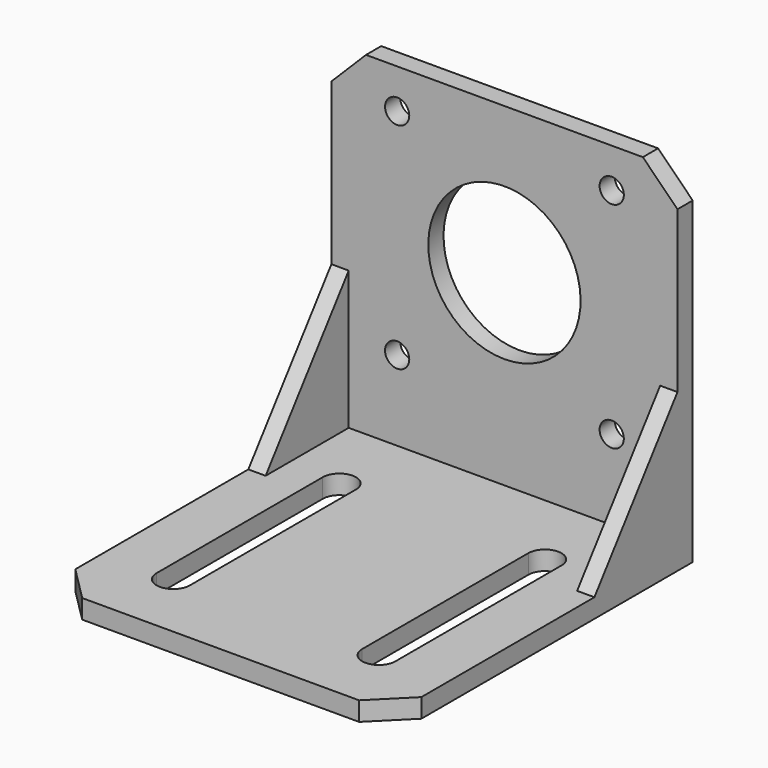
from build123d import *

# Parameters (mm, degrees)
PAD_DEPTH       = 25
CHAMFER_SIZE    = 5
PAD001_DEPTH    = 2.5
SKETCH002_R     = 11
POCKET_DEPTH    = 5
SKETCH003_R     = 1.75
HOLE_DEPTH      = 25
POCKET001_DEPTH = 5


with BuildPart() as part:
    # Sketch → Pad (new body, symmetric)
    with BuildSketch(Plane.YZ):
        Polygon((0, 51), (0, 0), (-54, 0), (-54, 2.75), (-2.75, 2.75), (-2.75, 51), align=None)
    extrude(amount=PAD_DEPTH, both=True)

    # Chamfer
    chamfer_edges = [part.edges().sort_by_distance(p)[0] for p in [
        (25, -1.375, 51),
        (-25, -1.375, 51),
        (25, -54, 1.375),
        (-25, -54, 1.375),
    ]]
    chamfer(chamfer_edges, length=CHAMFER_SIZE)

    # Sketch001 (on Face6 of Chamfer) → Pad001 (join)
    with BuildSketch(Plane.YZ.offset(25)):
        Polygon((-2.75, 2.75), (-2.75, 22.75), (-17.75, 2.75), align=None)
    pad001 = extrude(amount=-PAD001_DEPTH)

    # Mirrored: Pad001 across YZ
    add(pad001.mirror(Plane.YZ))

    # Sketch002 (on Face7 of Mirrored) → Pocket (cut)
    with BuildSketch(Plane(origin=(0, -2.75, 0), x_dir=(0, 0, -1), z_dir=(0, -1, 0))):
        with Locations((-29.8, 0)):
            Circle(SKETCH002_R)
    extrude(amount=-POCKET_DEPTH, mode=Mode.SUBTRACT)

    # Sketch003 (on Face9 of Pocket) → Hole (cut)
    with BuildSketch(Plane(origin=(0, -2.75, 0), x_dir=(0, 0, -1), z_dir=(0, -1, 0))):
        with Locations((-45.3, 15.5)):
            Circle(SKETCH003_R)
        with Locations((-14.3, 15.5)):
            Circle(SKETCH003_R)
        with Locations((-14.3, -15.5)):
            Circle(SKETCH003_R)
        with Locations((-45.3, -15.5)):
            Circle(SKETCH003_R)
    extrude(amount=-HOLE_DEPTH, mode=Mode.SUBTRACT)

    # Sketch004 (on Face15 of Hole) → Pocket001 (cut)
    with BuildSketch(Plane(origin=(0, 0, 2.75), x_dir=(0, -1, 0), z_dir=(0, 0, 1))):
        with BuildLine():
            ThreePointArc((14, 17.25), (11.6, 14.85), (14, 12.45))
            Line((14, 12.45), (44, 12.45))
            ThreePointArc((44, 12.45), (46.4, 14.85), (44, 17.25))
            Line((14, 17.25), (44, 17.25))
        make_face()
        with BuildLine():
            ThreePointArc((14, -12.45), (11.6, -14.85), (14, -17.25))
            Line((14, -17.25), (44, -17.25))
            ThreePointArc((44, -17.25), (46.4, -14.85), (44, -12.45))
            Line((14, -12.45), (44, -12.45))
        make_face()
    extrude(amount=-POCKET001_DEPTH, mode=Mode.SUBTRACT)


solid = part.part
